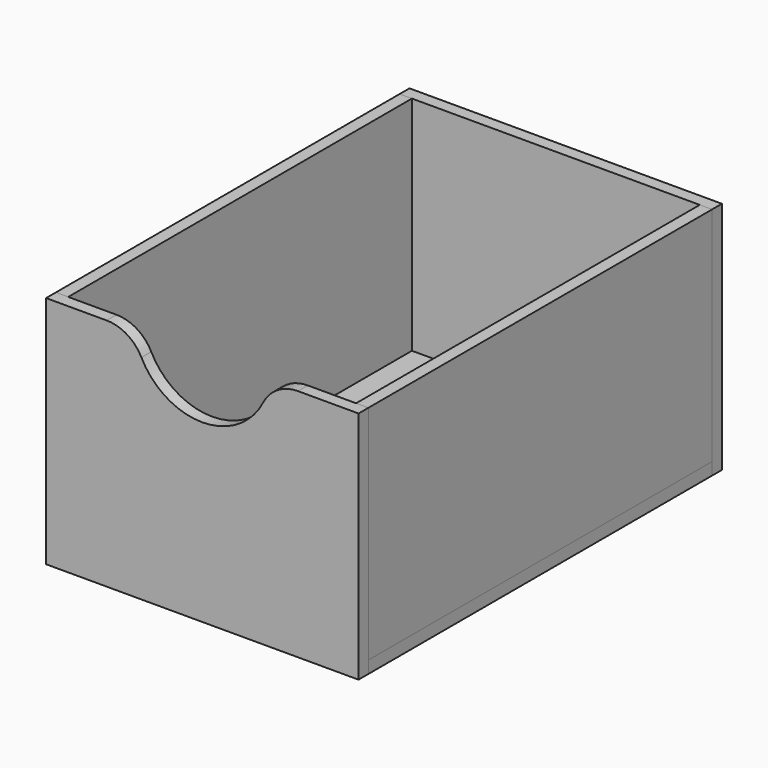
from build123d import *

# Parameters (mm, degrees)
F0_W      = 80
F0_H      = 60
F1_DEPTH  = 3.15
F2_W      = 80
F2_H      = 110
F3_DEPTH  = 3.15
F4_W      = 110
F4_H      = 56.85
F5_DEPTH  = 3.15
F7_W      = 80
F7_H      = 60
F8_DEPTH  = 3.15
F9_R      = 17.5
F10_DEPTH = 3.15
F11_R     = 10


with BuildPart() as f1:
    # F0 (on Front) → F1 (new body)
    with BuildSketch(Plane.XZ):
        with Locations((40, 30)):
            Rectangle(F0_W, F0_H)
    extrude(amount=F1_DEPTH)

    # F9 (on face) → F10 (cut)
    with BuildSketch(Plane.XZ.offset(3.15)):
        with Locations((40, 62.5)):
            Circle(F9_R)
    extrude(amount=-F10_DEPTH, mode=Mode.SUBTRACT)

    # F11
    f11_edges = [f1.edges().sort_by_distance(p)[0] for p in [
        (22.679492, -1.575, 60),
        (57.320508, -1.575, 60),
    ]]
    fillet(f11_edges, radius=F11_R)


with BuildPart() as f3:
    # F2 (on face) → F3 (new body)
    with BuildSketch(Plane(origin=(0, 0, 0), x_dir=(1, 0, 0), z_dir=(0, 0, -1))):
        with Locations((40, -55)):
            Rectangle(F2_W, F2_H)
    extrude(amount=-F3_DEPTH)


with BuildPart() as f5:
    # F4 (on face) → F5 (new body)
    with BuildSketch(Plane(origin=(0, 0, 0), x_dir=(0, -1, 0), z_dir=(-1, 0, 0))):
        with Locations((-55, 31.575)):
            Rectangle(F4_W, F4_H)
    extrude(amount=-F5_DEPTH)


with BuildPart() as f6_1:
    # F6: copy of F5
    add(f5.part.moved(Location((76.85, 0, 0))))


with BuildPart() as f8:
    # F7 (on face) → F8 (new body)
    with BuildSketch(Plane(origin=(0, 110, 0), x_dir=(-1, 0, 0), z_dir=(0, 1, 0))):
        with Locations((-40, 30)):
            Rectangle(F7_W, F7_H)
    extrude(amount=F8_DEPTH)


solid = Compound([f1.part, f3.part, f5.part, f6_1.part, f8.part])
